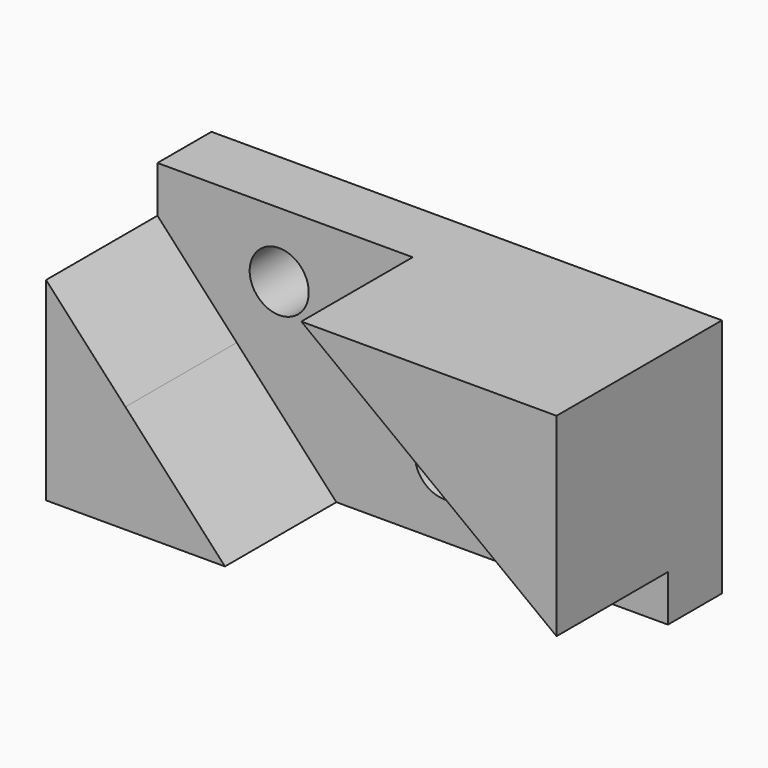
from build123d import *

# Parameters (mm, degrees)
F0_W     = 121
F0_H     = 16
F1_DEPTH = 57
F3_DEPTH = 33
F5_DEPTH = 33
F6_R     = 7
F7_DEPTH = 16.001


with BuildPart() as f1:
    # F0 (on Top) → F1 (new body)
    with BuildSketch(Plane.XY):
        with Locations((60.5, 8)):
            Rectangle(F0_W, F0_H)
    extrude(amount=F1_DEPTH)

    # F2 (on face) → F3 (join)
    with BuildSketch(Plane.XZ):
        Polygon((18.79299, 25.615024), (0, 46), (0, 0), (18.79299, 0), align=None)
        Polygon((42.407583, 0), (18.79299, 25.615024), (18.79299, 0), align=None)
    extrude(amount=F3_DEPTH)

    # F4 (on face) → F5 (join)
    with BuildSketch(Plane.XZ):
        Polygon((121, 11), (121, 57), (60.5, 57), align=None)
    extrude(amount=F5_DEPTH)

    # F6 (on face) → F7 (cut, through all)
    with BuildSketch(Plane.XZ):
        with Locations((28.861878, 41.622804)):
            Circle(F6_R)
        with Locations((68.02547, 15.911056)):
            Circle(F6_R)
    extrude(amount=-F7_DEPTH, mode=Mode.SUBTRACT)


solid = f1.part
